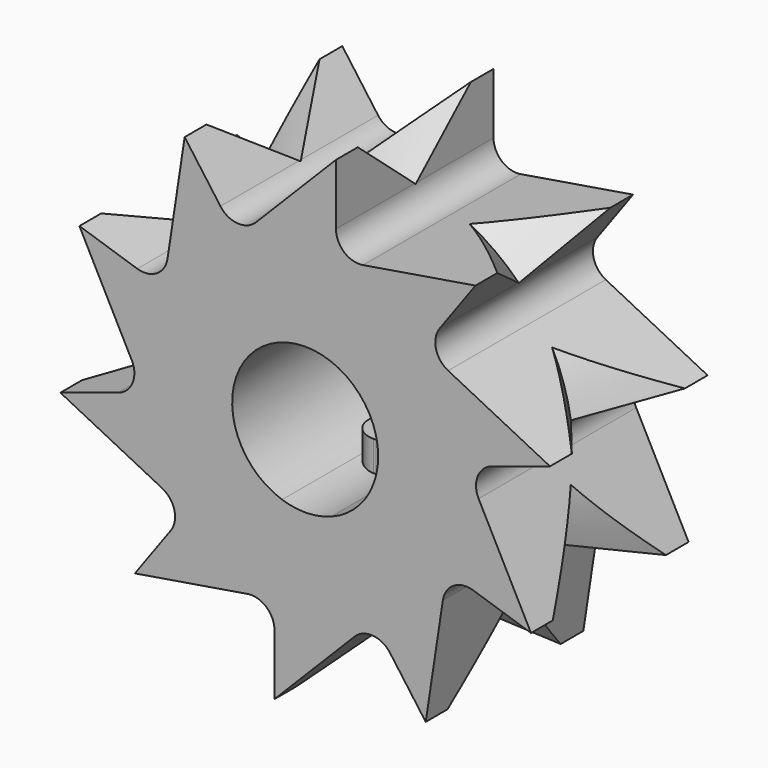
from build123d import *

# Parameters (mm, degrees)
F1_DEPTH = 42.926
F2_R     = 5.08
F5_DEPTH = 24.384
F6_R     = 5.08


with BuildPart() as f1:
    # F0 (on Front) → F1 (new body)
    with BuildSketch(Plane.XZ):
        Polygon((6.703672, 53.90551), (-14.948268, 31.979494), (-26.26148, 47.550793), (-30.890478, 17.085582), (-49.195638, 23.033289), (-35.033575, -4.334441), (-53.338735, -10.282148), (-25.795037, -24.098855), (-37.108248, -39.670155), (-6.703672, -34.658326), (-6.703672, -53.90551), (14.948268, -31.979494), (26.26148, -47.550793), (30.890478, -17.085582), (49.195638, -23.033289), (35.033575, 4.334441), (53.338735, 10.282148), (25.795037, 24.098855), (37.108248, 39.670155), (6.703672, 34.658326), align=None)
        with BuildLine():
            ThreePointArc((-5.035342, -15.090275), (-9.299672, 12.906865), (15.908207, 0))
            ThreePointArc((15.908207, 0), (13.090102, -9.039928), (5.634228, -14.877047))
            ThreePointArc((5.634228, -14.877047), (0.317856, -15.905032), (-5.035342, -15.090275))
        make_face(mode=Mode.SUBTRACT)
    extrude(amount=F1_DEPTH)

    # F2
    f2_edges = [f1.edges().sort_by_distance(p)[0] for p in [
        (25.795037, -21.463, 24.098855),
        (6.703672, -21.463, 34.658326),
        (35.033575, -21.463, 4.334441),
        (30.890478, -21.463, -17.085582),
        (14.948268, -21.463, -31.979494),
        (-6.703672, -21.463, -34.658326),
        (-25.795037, -21.463, -24.098855),
        (-35.033575, -21.463, -4.334441),
        (-30.890478, -21.463, 17.085582),
        (-14.948268, -21.463, 31.979494),
    ]]
    fillet(f2_edges, radius=F2_R)

    # F3 (on Right) → F4 (revolve, cut)
    with BuildSketch(Plane.YZ):
        Polygon((-6.094482, 54.397043), (-37.077803, 54.397043), (-21.222165, 40.98073), align=None)
    revolve(axis=Axis((0, -28.662119, 0), (0, 1, 0)), mode=Mode.SUBTRACT)

    # F0 (on Front) → F5 (join)
    with BuildSketch(Plane.XZ):
        with BuildLine():
            Line((-5.035342, -9.313321), (-5.035342, -15.090275))
            ThreePointArc((-5.035342, -15.090275), (0.317856, -15.905032), (5.634228, -14.877047))
            Line((5.634228, -14.877047), (5.634228, -9.313321))
            Line((5.634228, -9.313321), (-5.035342, -9.313321))
        make_face()
    extrude(amount=F5_DEPTH)

    # F6
    f6_edges = [f1.edges().sort_by_distance(p)[0] for p in [
        (5.634228, -24.384, -12.095184),
        (-5.035342, -24.384, -12.201798),
    ]]
    fillet(f6_edges, radius=F6_R)


solid = f1.part
